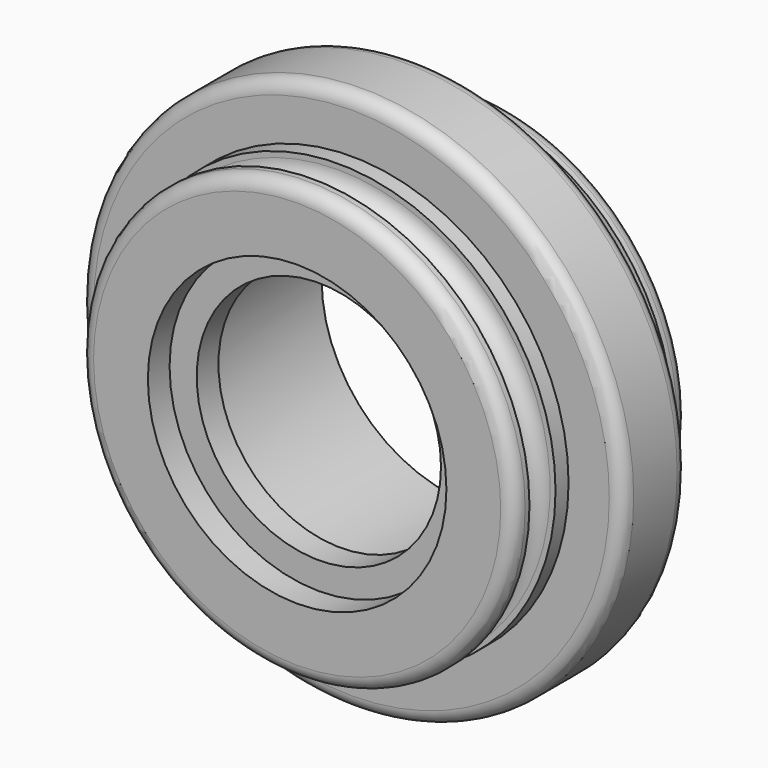
from build123d import *

# Parameters (mm, degrees)
F0_R          = 16
F0_R_2        = 11
F1_DEPTH      = 8
F1_DEPTH_BACK = 8
F0_R_3        = 20
F2_DEPTH      = 3
F2_DEPTH_BACK = 3
F3_R          = 1
F4_START      = 4
F0_R_4        = 9
F4_DEPTH      = 2


with BuildPart() as f1:
    # F0 (on Front) → F1 (new body, two sides)
    with BuildSketch(Plane.XZ) as f1_sk:
        Circle(F0_R)
        Circle(F0_R_2, mode=Mode.SUBTRACT)
    extrude(amount=F1_DEPTH)
    extrude(f1_sk.sketch, amount=-F1_DEPTH_BACK)

    # F0 (on Front) → F2 (join, two sides)
    with BuildSketch(Plane.XZ) as f2_sk:
        Circle(F0_R_3)
        Circle(F0_R, mode=Mode.SUBTRACT)
    extrude(amount=F2_DEPTH)
    extrude(f2_sk.sketch, amount=-F2_DEPTH_BACK)

    # F3
    f3_edges = [f1.edges().sort_by_distance(p)[0] for p in [
        (-20, -3, 0),
        (-20, 3, 0),
        (-16, -8, 0),
        (-16, 8, 0),
    ]]
    fillet(f3_edges, radius=F3_R)

    # F0 (on Front) → F4 (join)
    with BuildSketch(Plane.XZ.offset(F4_START)):
        Circle(F0_R_2)
        Circle(F0_R_4, mode=Mode.SUBTRACT)
    extrude(amount=F4_DEPTH)

    # F5 (on Right) → F6 (revolve, cut)
    with BuildSketch(Plane.YZ):
        with BuildLine():
            Line((-4.2, 15.6), (-4.2, 16.2))
            Line((-4.2, 16.2), (-4.2, 22.1827639759))
            Line((-4.2, 22.1827639759), (0, 22.1827639759))
            Line((0, 22.1827639759), (4.2, 22.1827639759))
            Line((4.2, 22.1827639759), (4.2, 16.2))
            Line((4.2, 16.2), (4.2, 15.6))
            ThreePointArc((4.2, 15.6), (5.4, 14.4), (6.6, 15.6))
            Line((6.6, 15.6), (6.6, 16))
            Line((6.6, 16), (12.973128818, 16))
            Line((12.973128818, 16), (12.973128818, 0))
            Line((12.973128818, 0), (17.3597242683, 0))
            Line((17.3597242683, 0), (17.3597242683, 23.6232783645))
            Line((17.3597242683, 23.6232783645), (0, 23.6232783645))
            Line((0, 23.6232783645), (-17.3597242683, 23.6232783645))
            Line((-17.3597242683, 23.6232783645), (-17.3597242683, 0))
            Line((-17.3597242683, 0), (-12.973128818, 0))
            Line((-12.973128818, 0), (-12.973128818, 16))
            Line((-12.973128818, 16), (-6.6, 16))
            Line((-6.6, 16), (-6.6, 15.6))
            ThreePointArc((-6.6, 15.6), (-5.4, 14.4), (-4.2, 15.6))
        make_face()
    revolve(axis=Axis((0, 15.1664265431, 0), (0, 1, 0)), mode=Mode.SUBTRACT)


solid = f1.part
